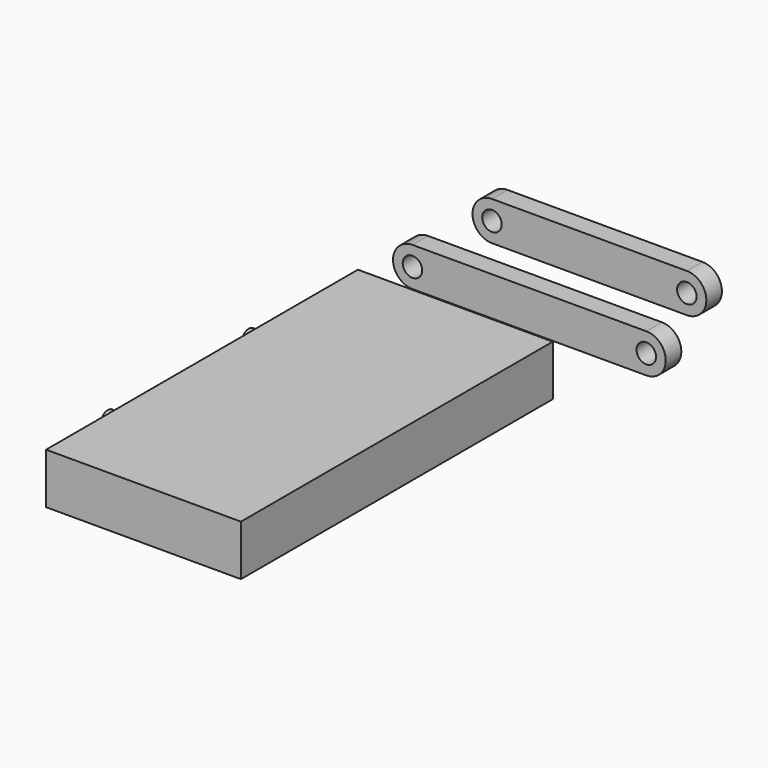
from build123d import *

# Parameters (mm, degrees)
SKETCH_R     = 5
PAD_DEPTH    = 10
SKETCH001_R  = 5
PAD001_DEPTH = 10
SKETCH002_W  = 200
SKETCH002_H  = 26
PAD002_DEPTH = 100
SKETCH003_R  = 4.8
PAD003_DEPTH = 12


with BuildPart() as body:
    # Sketch → Pad (new body)
    with BuildSketch(Plane.XZ):
        with BuildLine():
            ThreePointArc((0, 10), (-10, 0), (0, -10))
            Line((0, -10), (100, -10))
            ThreePointArc((100, -10), (110, 0), (100, 10))
            Line((100, 10), (0, 10))
        make_face()
        with Locations((100, 0)):
            Circle(SKETCH_R, mode=Mode.SUBTRACT)
        with Locations((0, 0.067016)):
            Circle(SKETCH_R, mode=Mode.SUBTRACT)
    extrude(amount=PAD_DEPTH)


with BuildPart() as body_1:
    # Body placement: moved
    add(body.part.moved(Location((0, 51, 0))))


with BuildPart() as body001:
    # Sketch001 → Pad001 (new body)
    with BuildSketch(Plane.XZ):
        with BuildLine():
            ThreePointArc((0, 9.969497), (-9.969497, 0), (0, -9.969497))
            Line((0, -9.969497), (120, -9.969497))
            ThreePointArc((120, -9.969497), (129.969497, 0), (120, 9.969497))
            Line((120, 9.969497), (0, 9.969497))
        make_face()
        with Locations((120, 0)):
            Circle(SKETCH001_R, mode=Mode.SUBTRACT)
        with Locations((0, 0.067016)):
            Circle(SKETCH001_R, mode=Mode.SUBTRACT)
    extrude(amount=PAD001_DEPTH)


with BuildPart() as plateau:
    # Sketch002 → Pad002 (new body)
    with BuildSketch(Plane.YZ):
        with Locations((-100, 0)):
            Rectangle(SKETCH002_W, SKETCH002_H)
    extrude(amount=PAD002_DEPTH)

    # Sketch003 → Pad003 (join)
    with BuildSketch(Plane.YZ):
        with Locations((-55, 0)):
            Circle(SKETCH003_R)
        with Locations((-145.4, 0)):
            Circle(SKETCH003_R)
    extrude(amount=-PAD003_DEPTH)


with BuildPart() as plateau_1:
    # Plateau placement: moved
    add(plateau.part.moved(Location((0, -45, 0))))


solid = Compound([body_1.part, body001.part, plateau_1.part])
